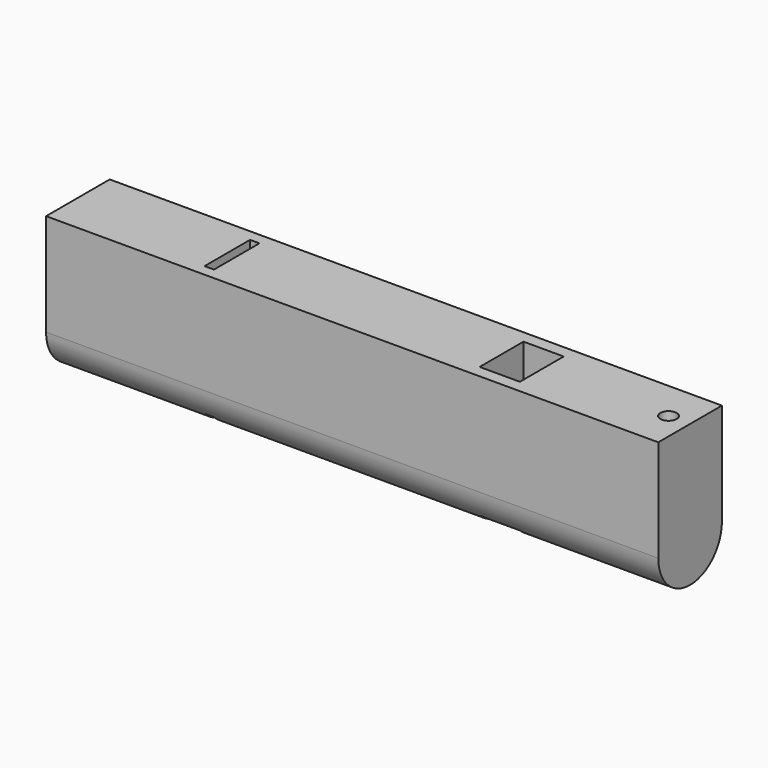
from build123d import *

# Parameters (mm, degrees)
F1_DEPTH = 30
F2_W     = 0.922354
F2_H     = 5.568772
F5_DEPTH = 13.899828
F3_W     = 3.941696
F3_H     = 5.368674
F6_DEPTH = 13.899828
F4_R     = 0.801782
F7_DEPTH = 13.899828


with BuildPart() as f1:
    # F0 (on Right) → F1 (new body, symmetric)
    with BuildSketch(Plane.YZ):
        with BuildLine():
            Line((3.898828, 10), (0, 10))
            Line((0, 10), (-3.898828, 10))
            Line((-3.898828, 10), (-3.898828, 0))
            ThreePointArc((-3.898828, 0), (0, -3.898828), (3.898828, 0))
            Line((3.898828, 0), (3.898828, 10))
        make_face()
    extrude(amount=F1_DEPTH, both=True)

    # F2 (on face) → F5 (cut, through all)
    with BuildSketch(Plane.XY.offset(10)):
        with Locations((-14.896151, 0)):
            Rectangle(F2_W, F2_H)
    extrude(amount=-F5_DEPTH, mode=Mode.SUBTRACT)

    # F3 (on face) → F6 (cut, through all)
    with BuildSketch(Plane.XY.offset(10)):
        with Locations((13.494484, 0)):
            Rectangle(F3_W, F3_H)
    extrude(amount=-F6_DEPTH, mode=Mode.SUBTRACT)

    # F4 (on face) → F7 (cut, through all)
    with BuildSketch(Plane.XY.offset(10)):
        with Locations((27.888514, 0)):
            Circle(F4_R)
    extrude(amount=-F7_DEPTH, mode=Mode.SUBTRACT)


solid = f1.part
